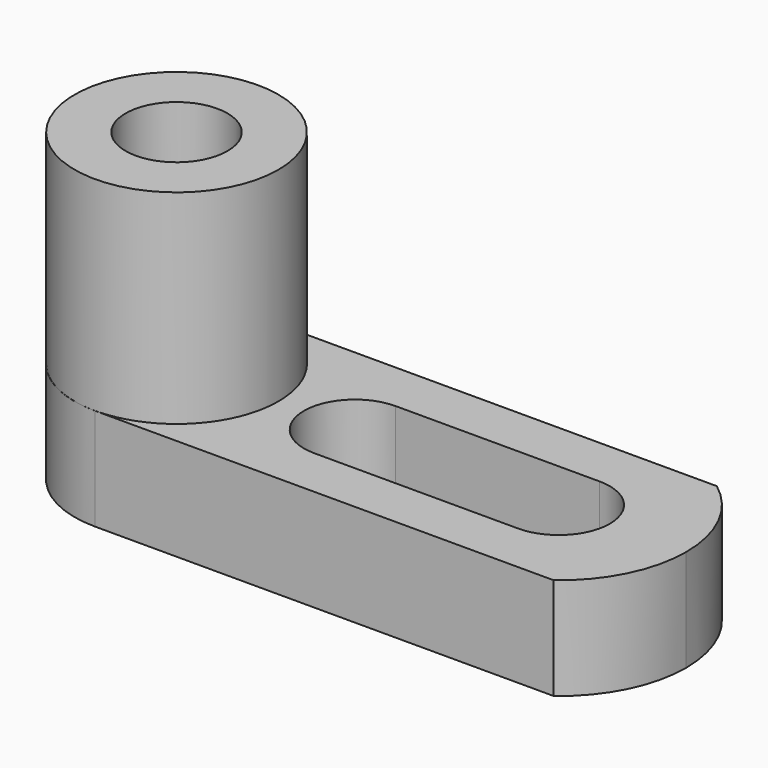
from build123d import *

# Parameters (mm, degrees)
F1_DEPTH  = 25.4
F3_DEPTH  = 12.701
F5_DEPTH  = 38.101
F6_R      = 12.6897983803
F7_DEPTH  = 25.4
F8_R      = 6.35
F9_DEPTH  = 38.101
F11_DEPTH = 12.701


with BuildPart() as f1:
    # F0 (on Front) → F1 (new body)
    with BuildSketch(Plane.XZ):
        Polygon((-67.8916360141, 50.7466404207), (-67.8916360141, 47.1607576076), (-67.8916360141, 12.6466404207), (8.3083639859, 12.6466404207), (8.3083639859, 25.3466404207), (-42.4916360141, 25.3466404207), (-42.4916360141, 50.7466404207), align=None)
    extrude(amount=F1_DEPTH)

    # F2 (on face) → F3 (cut, through all)
    with BuildSketch(Plane.XY.offset(25.3466404207)):
        with BuildLine():
            ThreePointArc((1.9583639859, 0), (6.632395643, -5.6004841714), (8.3083639859, -12.7))
            Line((8.3083639859, -12.7), (8.3083639859, 0))
            Line((8.3083639859, 0), (1.9583639859, 0))
        make_face()
        with BuildLine():
            ThreePointArc((8.3083639859, -12.7), (6.632395643, -19.7995158286), (1.9583639859, -25.4))
            Line((1.9583639859, -25.4), (8.3083639859, -25.4))
            Line((8.3083639859, -25.4), (8.3083639859, -12.7))
        make_face()
    extrude(amount=-F3_DEPTH, mode=Mode.SUBTRACT)

    # F4 (on face) → F5 (cut, through all)
    with BuildSketch(Plane.XY.offset(50.7466404207)):
        with BuildLine():
            ThreePointArc((-67.8916360141, -12.7), (-64.1718921352, -3.7197438789), (-55.1916360141, 0))
            Line((-55.1916360141, 0), (-67.8916360141, 0))
            Line((-67.8916360141, 0), (-67.8916360141, -12.7))
        make_face()
        with BuildLine():
            Line((-67.8916360141, -25.4), (-55.1916360141, -25.4))
            ThreePointArc((-55.1916360141, -25.4), (-64.1718921352, -21.6802561211), (-67.8916360141, -12.7))
            Line((-67.8916360141, -12.7), (-67.8916360141, -25.4))
        make_face()
    extrude(amount=-F5_DEPTH, mode=Mode.SUBTRACT)

    # F6 (on face) → F7 (cut)
    with BuildSketch(Plane.XY.offset(50.7466404207)):
        with BuildLine():
            Line((-42.4916360141, -25.4), (-42.4916360141, 0))
            Line((-42.4916360141, 0), (-55.1916360141, 0))
            ThreePointArc((-55.1916360141, 0), (-67.8916360141, -12.7), (-55.1916360141, -25.4))
            Line((-55.1916360141, -25.4), (-42.4916360141, -25.4))
        make_face()
        with Locations((-55.1916360141, -12.7)):
            Circle(F6_R, mode=Mode.SUBTRACT)
    extrude(amount=-F7_DEPTH, mode=Mode.SUBTRACT)

    # F8 (on face) → F9 (cut, through all)
    with BuildSketch(Plane.XY.offset(50.7466404207)):
        with Locations((-55.1916360141, -12.7)):
            Circle(F8_R)
    extrude(amount=-F9_DEPTH, mode=Mode.SUBTRACT)

    # F10 (on face) → F11 (cut, through all)
    with BuildSketch(Plane.XY.offset(25.3466404207)):
        with BuildLine():
            ThreePointArc((-7.5666360141, -19.05), (-3.0765079536, -17.1901280605), (-1.2166360141, -12.7))
            ThreePointArc((-1.2166360141, -12.7), (-3.0765079536, -8.2098719395), (-7.5666360141, -6.35))
            Line((-7.5666360141, -6.35), (-7.5666360141, -19.05))
        make_face()
        with BuildLine():
            Line((-7.5666360141, -19.05), (-7.5666360141, -6.35))
            ThreePointArc((-7.5666360141, -6.35), (-13.9166360141, -12.7), (-7.5666360141, -19.05))
        make_face()
        with BuildLine():
            ThreePointArc((-7.5666360141, -19.05), (-13.9166360141, -12.7), (-7.5666360141, -6.35))
            Line((-7.5666360141, -6.35), (-32.9666360141, -6.35))
            ThreePointArc((-32.9666360141, -6.35), (-28.4765079536, -8.2098719395), (-26.6166360141, -12.7))
            ThreePointArc((-26.6166360141, -12.7), (-28.4765079536, -17.1901280605), (-32.9666360141, -19.05))
            Line((-32.9666360141, -19.05), (-7.5666360141, -19.05))
        make_face()
        with BuildLine():
            Line((-32.9666360141, -12.7), (-32.9666360141, -6.35))
            ThreePointArc((-32.9666360141, -6.35), (-39.3166360141, -12.7), (-32.9666360141, -19.05))
            Line((-32.9666360141, -19.05), (-32.9666360141, -12.7))
        make_face()
        with BuildLine():
            ThreePointArc((-26.6166360141, -12.7), (-28.4765079536, -8.2098719395), (-32.9666360141, -6.35))
            Line((-32.9666360141, -6.35), (-32.9666360141, -12.7))
            Line((-32.9666360141, -12.7), (-32.9666360141, -19.05))
            ThreePointArc((-32.9666360141, -19.05), (-28.4765079536, -17.1901280605), (-26.6166360141, -12.7))
        make_face()
    extrude(amount=-F11_DEPTH, mode=Mode.SUBTRACT)


solid = f1.part
